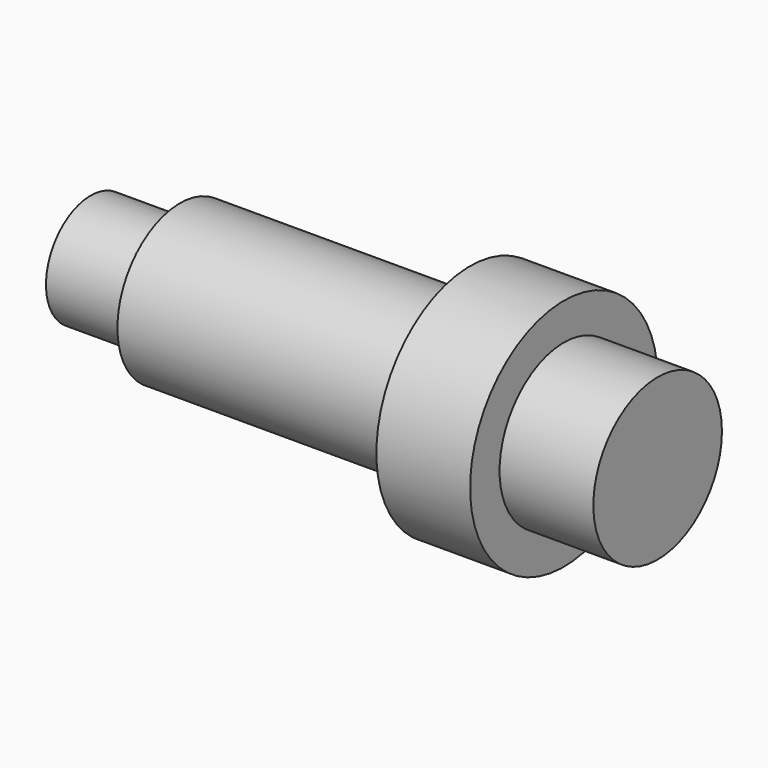
from build123d import *


with BuildPart() as part:
    # SketchShaft → RevolutionShaft (revolve)
    with BuildSketch(Plane.XY):
        Polygon((0, 0), (254, 0), (254, 36), (212, 36), (212, 52.5), (170, 52.5), (170, 35), (40, 35), (40, 25), (0, 25), align=None)
    revolve(axis=Axis((0, 0, 0), (1, 0, 0)))


solid = part.part
